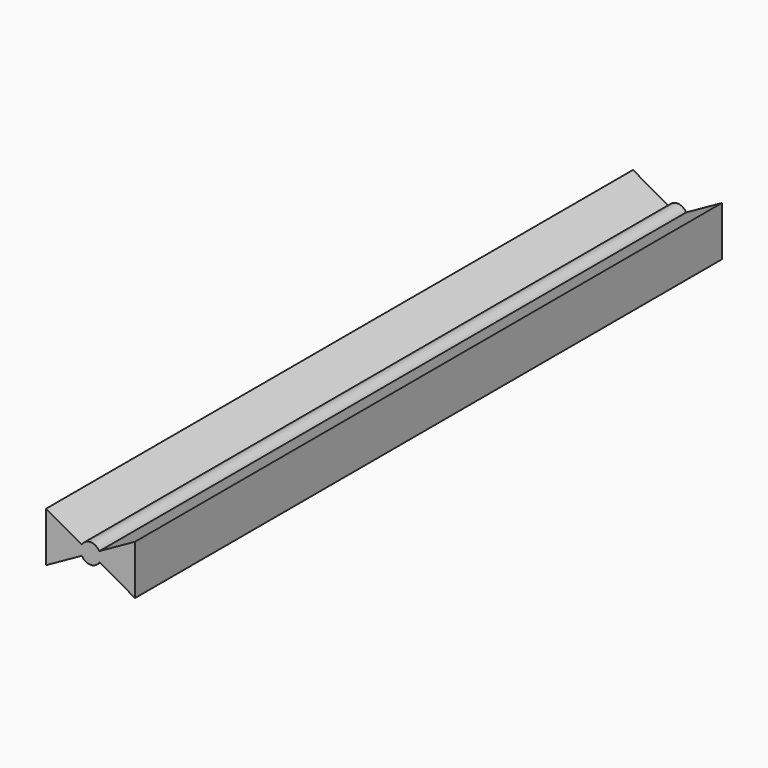
from build123d import *

# Parameters (mm, degrees)
F1_DEPTH = 2540


with BuildPart() as f1:
    # F0 (on Front) → F1 (new body)
    with BuildSketch(Plane.XZ):
        with BuildLine():
            Line((153.9936810732, 85.9075784683), (30.2082335464, 16.8963483059))
            ThreePointArc((30.2082335464, 16.8963483059), (33.4933271093, 8.7304638603), (34.6124827204, 0))
            ThreePointArc((34.6124827204, 0), (33.5294597887, -8.5906511012), (30.3481664655, -16.6437000769))
            Line((30.3481664655, -16.6437000769), (153.9936810732, -85.7974737883))
            Line((153.9936810732, -85.7974737883), (153.9936810732, 85.9075784683))
        make_face()
        with BuildLine():
            ThreePointArc((30.2082335464, 16.8963483059), (0.1433871846, 34.6121857181), (-30.0672068078, 17.1460501237))
            Line((-30.0672068078, 17.1460501237), (0.2459637966, 0.192178832))
            Line((0.2459637966, 0.192178832), (30.2082335464, 16.8963483059))
        make_face()
        with BuildLine():
            Line((30.3481664655, -16.6437000769), (0.2459637966, 0.192178832))
            Line((0.2459637966, 0.192178832), (-30.2550625521, -16.8123511155))
            ThreePointArc((-30.2550625521, -16.8123511155), (0.0963217415, -34.6123486951), (30.3481664655, -16.6437000769))
        make_face()
        with BuildLine():
            Line((0.2459637966, 0.192178832), (-30.0672068078, 17.1460501237))
            ThreePointArc((-30.0672068078, 17.1460501237), (-34.6119531212, 0.1914711524), (-30.2550625521, -16.8123511155))
            Line((-30.2550625521, -16.8123511155), (0.2459637966, 0.192178832))
        make_face()
        with BuildLine():
            Line((30.2082335464, 16.8963483059), (0.2459637966, 0.192178832))
            Line((0.2459637966, 0.192178832), (30.3481664655, -16.6437000769))
            ThreePointArc((30.3481664655, -16.6437000769), (33.5294597887, -8.5906511012), (34.6124827204, 0))
            ThreePointArc((34.6124827204, 0), (33.4933271093, 8.7304638603), (30.2082335464, 16.8963483059))
        make_face()
        with BuildLine():
            Line((-30.0672068078, 17.1460501237), (-153.9936810732, 86.4569619298))
            Line((-153.9936810732, 86.4569619298), (-153.9936810732, -85.7974737883))
            Line((-153.9936810732, -85.7974737883), (-30.2550625521, -16.8123511155))
            ThreePointArc((-30.2550625521, -16.8123511155), (-34.6119531212, 0.1914711524), (-30.0672068078, 17.1460501237))
        make_face()
    extrude(amount=F1_DEPTH)


solid = f1.part
